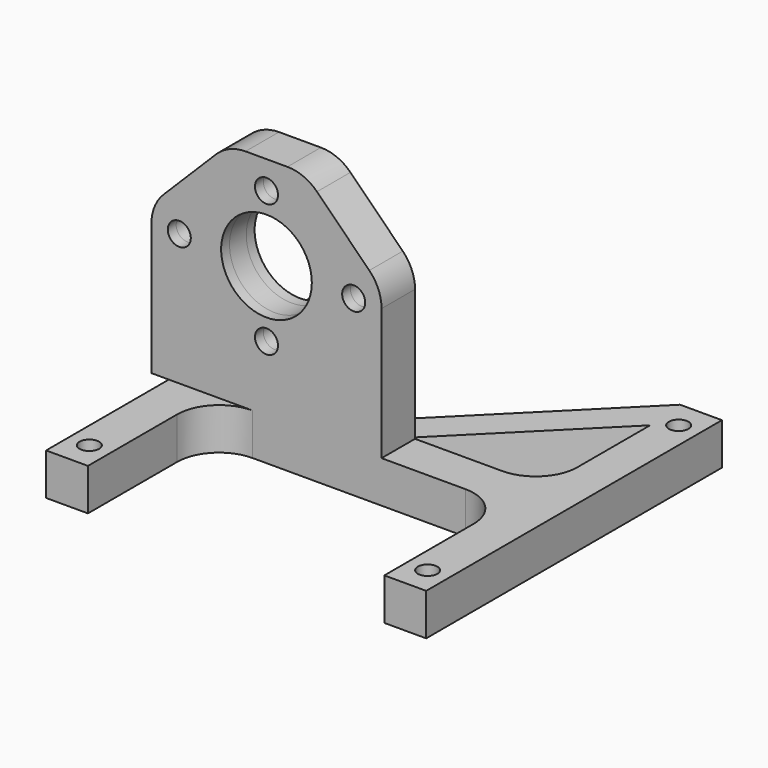
from build123d import *

# Parameters (mm, degrees)
SKETCH_R      = 1.65
SKETCH_R_2    = 6.5
PAD_DEPTH     = 3
SKETCH002_R   = 1.4
PAD001_DEPTH  = 6
SKETCH003_R   = 1.65
SKETCH003_R_2 = 6.5
PAD002_DEPTH  = 1.5


with BuildPart() as body:
    # Sketch → Pad (new body, symmetric)
    with BuildSketch(Plane(origin=(0, 25, 24.88), x_dir=(1, 0, 0), z_dir=(0, -1, 0))):
        with BuildLine():
            Line((-3, 13.5), (3, 13.5))
            ThreePointArc((7.242641, 11.742641), (5.296101, 13.043277), (3, 13.5))
            Line((7.242641, 11.742641), (14.742641, 4.242641))
            ThreePointArc((16.5, 0), (16.043277, 2.296101), (14.742641, 4.242641))
            Line((16.5, 0), (16.5, -18.88))
            Line((16.5, -18.88), (40.5, -18.88))
            Line((40.5, -18.88), (40.5, -24.88))
            Line((40.5, -24.88), (-14, -24.88))
            Line((-14, -24.88), (-14, -18.88))
            Line((-14, -18.88), (-16.5, -18.88))
            Line((-16.5, -18.88), (-16.5, 0))
            ThreePointArc((-14.742641, 4.242641), (-16.043277, 2.296101), (-16.5, 0))
            Line((-14.742641, 4.242641), (-7.242641, 11.742641))
            ThreePointArc((-3, 13.5), (-5.296101, 13.043277), (-7.242641, 11.742641))
        make_face()
        with Locations((-12.5, 0)):
            Circle(SKETCH_R, mode=Mode.SUBTRACT)
        with Locations((12.5, 0)):
            Circle(SKETCH_R, mode=Mode.SUBTRACT)
        with Locations((0, 9.5)):
            Circle(SKETCH_R, mode=Mode.SUBTRACT)
        with Locations((0, -9.5)):
            Circle(SKETCH_R, mode=Mode.SUBTRACT)
        Circle(SKETCH_R_2, mode=Mode.SUBTRACT)
    extrude(amount=PAD_DEPTH, both=True)

    # Sketch002 → Pad001 (join)
    with BuildSketch(Plane.XY):
        with BuildLine():
            Line((34.5, 0), (40.5, 0))
            Line((40.5, 0), (40.5, 53))
            Line((40.5, 53), (34.5, 53))
            Line((9.5, 28), (34.5, 53))
            Line((-2, 28), (9.5, 28))
            ThreePointArc((-8, 34), (-6.242641, 29.757359), (-2, 28))
            Line((-8, 53), (-8, 34))
            Line((-14, 53), (-8, 53))
            Line((-14, 0), (-14, 53))
            Line((-8, 0), (-14, 0))
            Line((-8, 16), (-8, 0))
            ThreePointArc((-2, 22), (-6.242641, 20.242641), (-8, 16))
            Line((28.5, 22), (-2, 22))
            ThreePointArc((34.5, 16), (32.742641, 20.242641), (28.5, 22))
            Line((34.5, 16), (34.5, 0))
        make_face()
        with Locations((-11, 49)):
            Circle(SKETCH002_R, mode=Mode.SUBTRACT)
        with Locations((37.5, 49)):
            Circle(SKETCH002_R, mode=Mode.SUBTRACT)
        with Locations((-11, 4)):
            Circle(SKETCH002_R, mode=Mode.SUBTRACT)
        with Locations((37.5, 4)):
            Circle(SKETCH002_R, mode=Mode.SUBTRACT)
        with BuildLine():
            Line((35, 47), (35, 34))
            ThreePointArc((29, 28), (33.242641, 29.757359), (35, 34))
            Line((16, 28), (29, 28))
            Line((16, 28), (35, 47))
        make_face(mode=Mode.SUBTRACT)
    extrude(amount=PAD001_DEPTH)


with BuildPart() as body001:
    # Sketch003 → Pad002 (new body, symmetric)
    with BuildSketch(Plane(origin=(0, 25, 24.88), x_dir=(1, 0, 0), z_dir=(0, -1, 0))):
        with BuildLine():
            Line((-14.708554, 2.905992), (-2.208554, 12.405992))
            ThreePointArc((2.208554, 12.405992), (0, 13.15), (-2.208554, 12.405992))
            Line((2.208554, 12.405992), (14.708554, 2.905992))
            ThreePointArc((14.708554, -2.905992), (16.15, 0), (14.708554, 2.905992))
            Line((2.208554, -12.405992), (14.708554, -2.905992))
            ThreePointArc((-2.208554, -12.405992), (0, -13.15), (2.208554, -12.405992))
            Line((-2.208554, -12.405992), (-14.708554, -2.905992))
            ThreePointArc((-14.708554, 2.905992), (-16.15, 0), (-14.708554, -2.905992))
        make_face()
        with Locations((-12.5, 0)):
            Circle(SKETCH003_R, mode=Mode.SUBTRACT)
        with Locations((12.5, 0)):
            Circle(SKETCH003_R, mode=Mode.SUBTRACT)
        with Locations((0, 9.5)):
            Circle(SKETCH003_R, mode=Mode.SUBTRACT)
        with Locations((0, -9.5)):
            Circle(SKETCH003_R, mode=Mode.SUBTRACT)
        Circle(SKETCH003_R_2, mode=Mode.SUBTRACT)
    extrude(amount=PAD002_DEPTH, both=True)


solid = Compound([body.part, body001.part])
